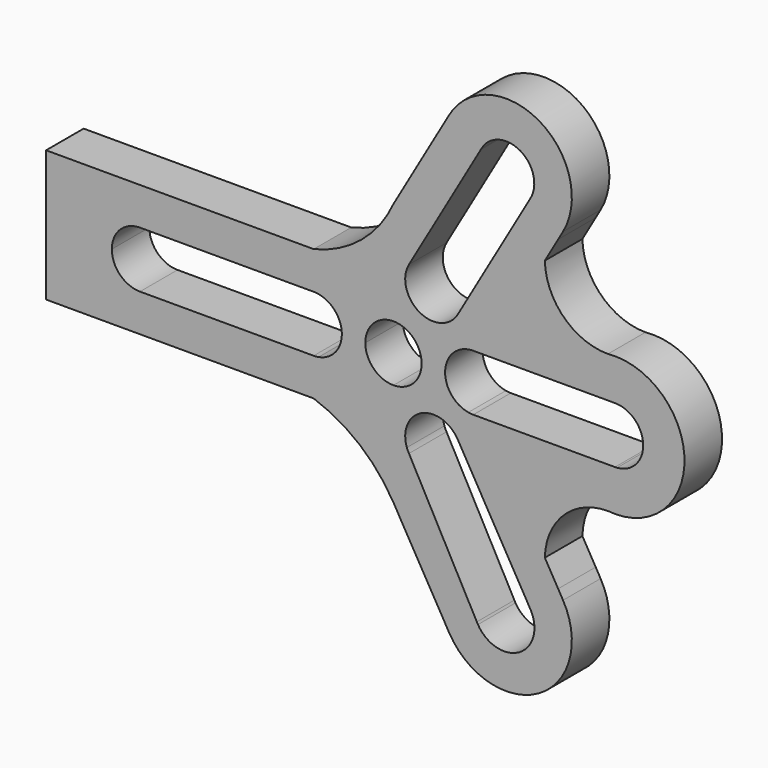
from build123d import *

# Parameters (mm, degrees)
F1_DEPTH = 254


with BuildPart() as f1:
    # F0 (on Front) → F1 (new body)
    with BuildSketch(Plane.XZ):
        with BuildLine():
            ThreePointArc((1160.4353536497, 373.9497693541), (1190.2445719567, 264.1334869485), (1209.6857689596, 152.0163819353))
            ThreePointArc((1209.6857689596, 152.0163819353), (1310.3976121316, 103.8721694551), (1351.2793068509, 0))
            Line((1351.2793068509, 0), (1574.8, 0))
            ThreePointArc((1574.8, 0), (1450.736895582, 279.0772698309), (1160.4353536497, 373.9497693541))
        make_face()
        with BuildLine():
            ThreePointArc((736.8010212461, 971.3768038669), (816.8986691145, 905.0553598532), (891.0532399748, 832.1494838852))
            Line((891.0532399748, 832.1494838852), (917.5586335857, 878.058172294))
            Line((917.5586335857, 878.058172294), (741.5822715367, 979.658172294))
            Line((741.5822715367, 979.658172294), (736.8010212461, 971.3768038669))
        make_face()
        with BuildLine():
            Line((477.6177284633, 1132.058172294), (301.6413664143, 1233.658172294))
            Line((301.6413664143, 1233.658172294), (275.1359728033, 1187.7494838852))
            ThreePointArc((275.1359728033, 1187.7494838852), (375.3515989068, 1159.9826796975), (472.8364781726, 1123.7768038669))
            Line((472.8364781726, 1123.7768038669), (477.6177284633, 1132.058172294))
        make_face()
        with BuildLine():
            Line((275.1359728033, -1187.7494838852), (301.6413664143, -1233.658172294))
            Line((301.6413664143, -1233.658172294), (457.2, -1143.8463533185))
            Line((457.2, -1143.8463533185), (451.1739193379, -1132.647665653))
            ThreePointArc((451.1739193379, -1132.647665653), (364.1985275213, -1163.5325833647), (275.1359728033, -1187.7494838852))
        make_face()
        with BuildLine():
            Line((917.5586335857, -878.058172294), (891.0532399748, -832.1494838852))
            ThreePointArc((891.0532399748, -832.1494838852), (816.8986691145, -905.0553598532), (736.8010212461, -971.3768038669))
            Line((736.8010212461, -971.3768038669), (741.5822715367, -979.658172294))
            Line((741.5822715367, -979.658172294), (917.5586335857, -878.058172294))
        make_face()
        with BuildLine():
            ThreePointArc((1351.2793068509, 0), (1310.3976121316, -103.8721694551), (1209.6857689596, -152.0163819353))
            ThreePointArc((1209.6857689596, -152.0163819353), (1190.2445719567, -264.1334869485), (1160.4353536497, -373.9497693541))
            ThreePointArc((1160.4353536497, -373.9497693541), (1450.736895582, -279.0772698309), (1574.8, 0))
            Line((1574.8, 0), (1351.2793068509, 0))
        make_face()
        with BuildLine():
            Line((741.5822715367, 979.658172294), (917.5586335857, 878.058172294))
            ThreePointArc((917.5586335857, 878.058172294), (787.4, 1363.8168058797), (301.6413664143, 1233.658172294))
            Line((301.6413664143, 1233.658172294), (477.6177284633, 1132.058172294))
            ThreePointArc((477.6177284633, 1132.058172294), (685.8, 1187.8404438307), (741.5822715367, 979.658172294))
        make_face()
        with BuildLine():
            ThreePointArc((301.6413664143, -1233.658172294), (787.4, -1363.8168058797), (917.5586335857, -878.058172294))
            Line((917.5586335857, -878.058172294), (741.5822715367, -979.658172294))
            ThreePointArc((741.5822715367, -979.658172294), (680.8645597623, -1202.8683726303), (457.2, -1143.8463533185))
            Line((457.2, -1143.8463533185), (301.6413664143, -1233.658172294))
        make_face()
        with BuildLine():
            Line((391.876362049, 373.9497693541), (1160.4353536497, 373.9497693541))
            ThreePointArc((1160.4353536497, 373.9497693541), (921.7950857099, 471.2128883299), (819.1336335857, 707.581071559))
            Line((819.1336335857, 707.581071559), (891.0532399748, 832.1494838852))
            ThreePointArc((891.0532399748, 832.1494838852), (816.8986691145, 905.0553598532), (736.8010212461, 971.3768038669))
            Line((736.8010212461, 971.3768038669), (391.876362049, 373.9497693541))
        make_face()
        with BuildLine():
            ThreePointArc((-1209.6374994187, 152.4), (-1192.2502680214, 254.9273198443), (-1166.1892127781, 355.6))
            Line((-1166.1892127781, 355.6), (-1879.6, 355.6))
            Line((-1879.6, 355.6), (-1879.6, 0))
            Line((-1879.6, 0), (-1524, 0))
            ThreePointArc((-1524, 0), (-1479.3630734528, 107.7630734528), (-1371.6, 152.4))
            Line((-1371.6, 152.4), (-1209.6374994187, 152.4))
        make_face()
        with BuildLine():
            Line((-1879.6, -355.6), (-1166.1892127781, -355.6))
            ThreePointArc((-1166.1892127781, -355.6), (-1192.2502680214, -254.9273198443), (-1209.6374994187, -152.4))
            Line((-1209.6374994187, -152.4), (-1371.6, -152.4))
            ThreePointArc((-1371.6, -152.4), (-1479.3630734528, -107.7630734528), (-1524, 0))
            Line((-1524, 0), (-1879.6, 0))
            Line((-1879.6, 0), (-1879.6, -355.6))
        make_face()
        with BuildLine():
            ThreePointArc((0, 431.8), (36.4005750014, 430.2629871829), (72.5420108165, 425.6628908734))
            ThreePointArc((72.5420108165, 425.6628908734), (77.6865180317, 438.1587516089), (83.9177284633, 450.1497693541))
            Line((83.9177284633, 450.1497693541), (472.8364781726, 1123.7768038669))
            ThreePointArc((472.8364781726, 1123.7768038669), (375.3515989068, 1159.9826796975), (275.1359728033, 1187.7494838852))
            Line((275.1359728033, 1187.7494838852), (0, 711.2))
            Line((0, 711.2), (0, 431.8))
        make_face()
        with BuildLine():
            ThreePointArc((-404.9058823529, 150.008221228), (-246.655316255, 354.4183897079), (0, 431.8))
            Line((0, 431.8), (0, 711.2))
            ThreePointArc((0, 711.2), (-174.6344256589, 483.2918025858), (-431.8, 355.6))
            Line((-431.8, 355.6), (-1166.1892127781, 355.6))
            ThreePointArc((-1166.1892127781, 355.6), (-1192.2502680214, 254.9273198443), (-1209.6374994187, 152.4))
            Line((-1209.6374994187, 152.4), (-431.8, 152.4))
            ThreePointArc((-431.8, 152.4), (-418.2998687996, 151.8008776575), (-404.9058823529, 150.008221228))
        make_face()
        with BuildLine():
            Line((0, -711.2), (0, -431.8))
            ThreePointArc((0, -431.8), (-246.655316255, -354.4183897079), (-404.9058823529, -150.008221228))
            ThreePointArc((-404.9058823529, -150.008221228), (-418.2998687996, -151.8008776575), (-431.8, -152.4))
            Line((-431.8, -152.4), (-1209.6374994187, -152.4))
            ThreePointArc((-1209.6374994187, -152.4), (-1192.2502680214, -254.9273198443), (-1166.1892127781, -355.6))
            Line((-1166.1892127781, -355.6), (-431.8, -355.6))
            ThreePointArc((-431.8, -355.6), (-183.7043920276, -494.3053331764), (0, -711.2))
        make_face()
        with BuildLine():
            ThreePointArc((83.9177284633, -450.1497693541), (77.6865180317, -438.1587516089), (72.5420108165, -425.6628908734))
            ThreePointArc((72.5420108165, -425.6628908734), (36.4005750014, -430.2629871829), (0, -431.8))
            Line((0, -431.8), (0, -711.2))
            Line((0, -711.2), (275.1359728033, -1187.7494838852))
            ThreePointArc((275.1359728033, -1187.7494838852), (364.1985275213, -1163.5325833647), (451.1739193379, -1132.647665653))
            Line((451.1739193379, -1132.647665653), (83.9177284633, -450.1497693541))
        make_face()
        with BuildLine():
            ThreePointArc((1198.8793068509, 152.4), (1204.285941343, 152.3040652887), (1209.6857689596, 152.0163819353))
            ThreePointArc((1209.6857689596, 152.0163819353), (1190.2445719567, 264.1334869485), (1160.4353536497, 373.9497693541))
            Line((1160.4353536497, 373.9497693541), (391.876362049, 373.9497693541))
            Line((391.876362049, 373.9497693541), (347.8822715367, 297.7497693541))
            ThreePointArc((347.8822715367, 297.7497693541), (340.6133507679, 286.3578739515), (332.3638715364, 275.6546696454))
            ThreePointArc((332.3638715364, 275.6546696454), (373.9497693541, 215.9), (404.9058823529, 150.008221228))
            ThreePointArc((404.9058823529, 150.008221228), (418.2998687996, 151.8008776575), (431.8, 152.4))
            Line((431.8, 152.4), (1198.8793068509, 152.4))
        make_face()
        with BuildLine():
            ThreePointArc((1160.4353536497, -373.9497693541), (1190.2445719567, -264.1334869485), (1209.6857689596, -152.0163819353))
            ThreePointArc((1209.6857689596, -152.0163819353), (1204.285941343, -152.3040652887), (1198.8793068509, -152.4))
            Line((1198.8793068509, -152.4), (431.8, -152.4))
            ThreePointArc((431.8, -152.4), (418.2998687996, -151.8008776575), (404.9058823529, -150.008221228))
            ThreePointArc((404.9058823529, -150.008221228), (373.9497693541, -215.9), (332.3638715364, -275.6546696454))
            ThreePointArc((332.3638715364, -275.6546696454), (340.6133507679, -286.3578739515), (347.8822715367, -297.7497693541))
            Line((347.8822715367, -297.7497693541), (391.876362049, -373.9497693541))
            Line((391.876362049, -373.9497693541), (1160.4353536497, -373.9497693541))
        make_face()
        with BuildLine():
            ThreePointArc((-404.9058823529, -150.008221228), (-246.655316255, -354.4183897079), (0, -431.8))
            Line((0, -431.8), (0, -152.4))
            ThreePointArc((0, -152.4), (-107.7630734528, -107.7630734528), (-152.4, 0))
            Line((-152.4, 0), (-279.4, 0))
            ThreePointArc((-279.4, 0), (-314.9145356997, -97.793395663), (-404.9058823529, -150.008221228))
        make_face()
        with BuildLine():
            Line((0, 152.4), (0, 431.8))
            ThreePointArc((0, 431.8), (-246.655316255, 354.4183897079), (-404.9058823529, 150.008221228))
            ThreePointArc((-404.9058823529, 150.008221228), (-314.9145356997, 97.793395663), (-279.4, 0))
            Line((-279.4, 0), (-152.4, 0))
            ThreePointArc((-152.4, 0), (-107.7630734528, 107.7630734528), (0, 152.4))
        make_face()
        with BuildLine():
            ThreePointArc((279.4, 0), (314.9145356997, 97.793395663), (404.9058823529, 150.008221228))
            ThreePointArc((404.9058823529, 150.008221228), (373.9497693541, 215.9), (332.3638715364, 275.6546696454))
            ThreePointArc((332.3638715364, 275.6546696454), (242.1488328163, 223.8272901054), (139.7, 241.9674978174))
            Line((139.7, 241.9674978174), (76.2, 131.9822715367))
            ThreePointArc((76.2, 131.9822715367), (131.9822715367, 76.2), (152.4, 0))
            Line((152.4, 0), (279.4, 0))
        make_face()
        with BuildLine():
            ThreePointArc((139.7, 241.9674978174), (72.7657028834, 321.6206857684), (72.5420108165, 425.6628908734))
            ThreePointArc((72.5420108165, 425.6628908734), (36.4005750014, 430.2629871829), (0, 431.8))
            Line((0, 431.8), (0, 152.4))
            ThreePointArc((0, 152.4), (39.4440224736, 147.2070959265), (76.2, 131.9822715367))
            Line((76.2, 131.9822715367), (139.7, 241.9674978174))
        make_face()
        with BuildLine():
            ThreePointArc((332.3638715364, -275.6546696454), (373.9497693541, -215.9), (404.9058823529, -150.008221228))
            ThreePointArc((404.9058823529, -150.008221228), (314.9145356997, -97.793395663), (279.4, 0))
            Line((279.4, 0), (152.4, 0))
            ThreePointArc((152.4, 0), (131.9822715367, -76.2), (76.2, -131.9822715367))
            Line((76.2, -131.9822715367), (139.7, -241.9674978174))
            ThreePointArc((139.7, -241.9674978174), (242.1488328163, -223.8272901054), (332.3638715364, -275.6546696454))
        make_face()
        with BuildLine():
            ThreePointArc((0, -431.8), (36.4005750014, -430.2629871829), (72.5420108165, -425.6628908734))
            ThreePointArc((72.5420108165, -425.6628908734), (72.7657028834, -321.6206857684), (139.7, -241.9674978174))
            Line((139.7, -241.9674978174), (76.2, -131.9822715367))
            ThreePointArc((76.2, -131.9822715367), (39.4440224736, -147.2070959265), (0, -152.4))
            Line((0, -152.4), (0, -431.8))
        make_face()
        with BuildLine():
            ThreePointArc((819.1336335857, -707.581071559), (921.7950857099, -471.2128883299), (1160.4353536497, -373.9497693541))
            Line((1160.4353536497, -373.9497693541), (391.876362049, -373.9497693541))
            Line((391.876362049, -373.9497693541), (736.8010212461, -971.3768038669))
            ThreePointArc((736.8010212461, -971.3768038669), (816.8986691145, -905.0553598532), (891.0532399748, -832.1494838852))
            Line((891.0532399748, -832.1494838852), (819.1336335857, -707.581071559))
        make_face()
    extrude(amount=F1_DEPTH)


solid = f1.part
